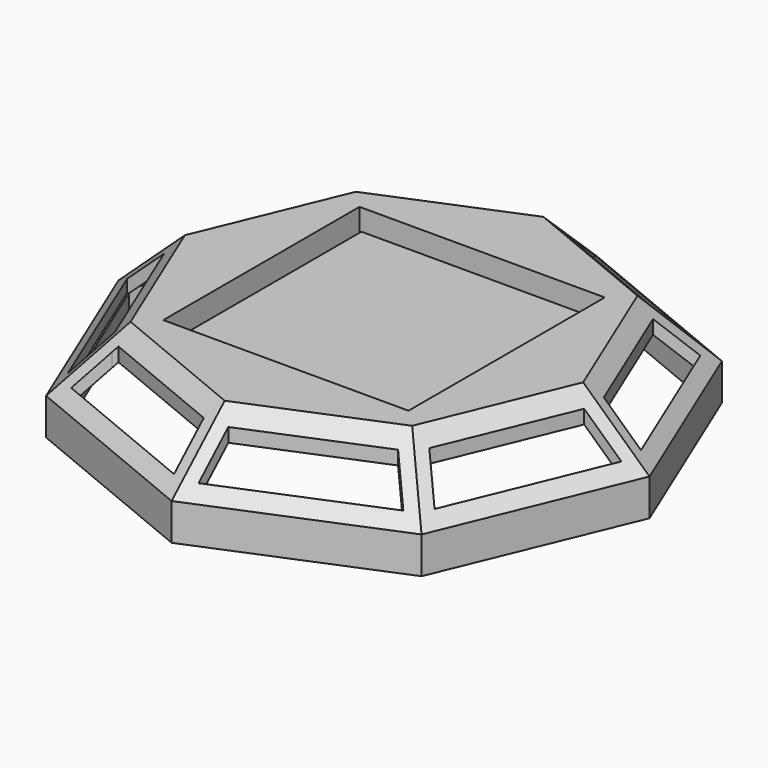
from build123d import *

# Parameters (mm, degrees)
F1_DEPTH = 40
F2_SIZE  = 25
F3_W     = 100
F3_H     = 100
F4_DEPTH = 10
F5_W     = 92
F5_H     = 92
F6_DEPTH = 4
F7_T     = -4
F9_DEPTH = 25


with BuildPart() as f1:
    # F0 (on Top) → F1 (new body)
    with BuildSketch(Plane.XY):
        Polygon((108.2392200292, 0), (76.536686473, 76.536686473), (0, 108.2392200292), (-76.536686473, 76.536686473), (-108.2392200292, 0), (-76.536686473, -76.536686473), (0, -108.2392200292), (76.536686473, -76.536686473), align=None)
    extrude(amount=F1_DEPTH)

    # F2
    f2_edges = [f1.edges().sort_by_distance(p)[0] for p in [
        (38.268343, 92.387953, 40),
        (-38.268343, 92.387953, 40),
        (-92.387953, 38.268343, 40),
        (-92.387953, -38.268343, 40),
        (-38.268343, -92.387953, 40),
        (38.268343, -92.387953, 40),
        (92.387953, -38.268343, 40),
        (92.387953, 38.268343, 40),
    ]]
    chamfer(f2_edges, length=F2_SIZE)

    # F3 (on face) → F4 (cut)
    with BuildSketch(Plane.XY.offset(40)):
        Rectangle(F3_W, F3_H)
    extrude(amount=-F4_DEPTH, mode=Mode.SUBTRACT)

    # F5 (on face) → F6 (join)
    with BuildSketch(Plane.XY.offset(30)):
        Rectangle(F5_W, F5_H)
    extrude(amount=F6_DEPTH)

    # F7
    f7_openings = [f1.faces().sort_by_distance(p)[0] for p in [
        (0, 0, 0),
    ]]
    offset(amount=F7_T, openings=f7_openings, kind=Kind.INTERSECTION)

    # F8 (on face) → F9 (cut)
    with BuildSketch(Plane.XY.offset(40)):
        Polygon((-67.7146268432, -74.7856946551), (-5, -100.7629436527), (-5, -87.6805206605), (-5, -85.6094528486), (-56.999490737, -64.0705585489), (-58.4639568311, -65.5350246429), align=None)
        Polygon((5.000001811, -100.7629429025), (67.7146250322, -74.7856954052), (58.4639555505, -65.5350259235), (56.999488926, -64.070559299), (5.000001811, -85.6094520985), (5.000001811, -87.6805206605), align=None)
        Polygon((65.5350259235, 58.4639555505), (64.070559299, 56.999488926), (85.6094520985, 5.000001811), (87.6805206605, 5.000001811), (100.7629429025, 5.000001811), (74.7856954052, 67.7146250322), align=None)
        Polygon((56.999490737, 64.0705585489), (58.4639568311, 65.5350246429), (67.7146268432, 74.7856946551), (5.000001811, 100.7629429025), (5.000001811, 87.6805206605), (5.000001811, 85.6094520985), align=None)
        Polygon((-67.7146268432, 74.7856946551), (-58.4639568311, 65.5350246429), (-56.999490737, 64.0705585489), (-5, 85.6094528486), (-5, 87.6805206605), (-5, 100.7629436527), align=None)
        Polygon((74.7856946551, -67.7146268432), (100.7629436527, -5), (87.6805206605, -5), (85.6094528486, -5), (64.0705585489, -56.999490737), (65.5350246429, -58.4639568311), align=None)
        Polygon((-74.7856954052, 67.7146250322), (-100.7629429025, 5.000001811), (-87.6805206605, 5.000001811), (-85.6094520985, 5.000001811), (-64.070559299, 56.999488926), (-65.5350259235, 58.4639555505), align=None)
        Polygon((-100.7629436527, -5), (-74.7856954052, -67.7146250322), (-65.5350259235, -58.4639555505), (-64.070559299, -56.999488926), (-85.6094528486, -5), (-87.6805206605, -5), align=None)
    extrude(amount=-F9_DEPTH, mode=Mode.SUBTRACT)


solid = f1.part
